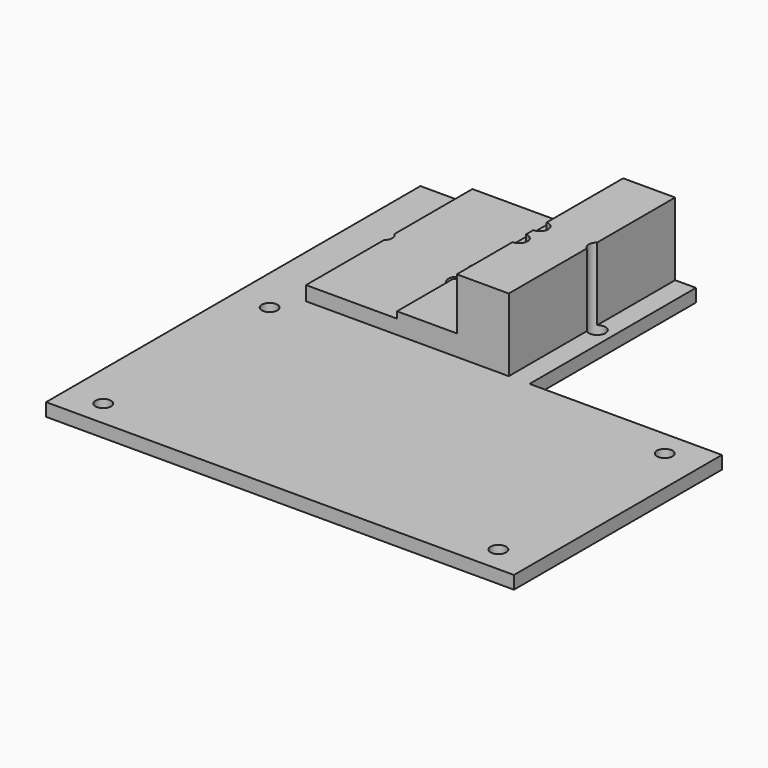
from build123d import *

# Parameters (mm, degrees)
BOX004_W          = 40
BOX004_H          = 40
BOX004_DEPTH      = 10
CYLINDER009_R     = 1.6
CYLINDER009_DEPTH = 20
CYLINDER008_R     = 1.6
CYLINDER008_DEPTH = 20
CYLINDER007_R     = 1.6
CYLINDER007_DEPTH = 20
CYLINDER006_R     = 1.6
CYLINDER006_DEPTH = 10
CYLINDER005_R     = 1.6
CYLINDER005_DEPTH = 10
CYLINDER004_R     = 1.6
CYLINDER004_DEPTH = 10
BOX003_W          = 10
BOX003_H          = 40
BOX003_DEPTH      = 14
BOX002_W          = 11.5
BOX002_H          = 40
BOX002_DEPTH      = 4
BOX001_W          = 17.5
BOX001_H          = 40
BOX001_DEPTH      = 2.75
CYLINDER003_R     = 1.5
CYLINDER003_DEPTH = 10
CYLINDER002_R     = 1.5
CYLINDER002_DEPTH = 10
CYLINDER001_R     = 1.5
CYLINDER001_DEPTH = 10
CYLINDER_R        = 1.5
CYLINDER_DEPTH    = 10
BOX_W             = 90
BOX_H             = 90
BOX_DEPTH         = 2.5


with BuildPart() as cube004:
    # Box004 → Box004 (new body)
    with BuildSketch(Plane(origin=(53, 50, -5), x_dir=(1, 0, 0), z_dir=(0, 0, 1))):
        with Locations((20, 20)):
            Rectangle(BOX004_W, BOX004_H)
    extrude(amount=BOX004_DEPTH)


with BuildPart() as cylinder009:
    # Cylinder009 → Cylinder009 (new body)
    with BuildSketch(Plane(origin=(50, 70, -5), x_dir=(1, 0, 0), z_dir=(0, 0, 1))):
        Circle(CYLINDER009_R)
    extrude(amount=CYLINDER009_DEPTH)


with BuildPart() as cylinder008:
    # Cylinder008 → Cylinder008 (new body)
    with BuildSketch(Plane(origin=(39, 70, -5), x_dir=(1, 0, 0), z_dir=(0, 0, 1))):
        Circle(CYLINDER008_R)
    extrude(amount=CYLINDER008_DEPTH)


with BuildPart() as cylinder007:
    # Cylinder007 → Cylinder007 (new body)
    with BuildSketch(Plane(origin=(39, 65, -5), x_dir=(1, 0, 0), z_dir=(0, 0, 1))):
        Circle(CYLINDER007_R)
    extrude(amount=CYLINDER007_DEPTH)


with BuildPart() as cylinder006:
    # Cylinder006 → Cylinder006 (new body)
    with BuildSketch(Plane(origin=(27, 65, -5), x_dir=(1, 0, 0), z_dir=(0, 0, 1))):
        Circle(CYLINDER006_R)
    extrude(amount=CYLINDER006_DEPTH)


with BuildPart() as cylinder005:
    # Cylinder005 → Cylinder005 (new body)
    with BuildSketch(Plane(origin=(27, 70, -5), x_dir=(1, 0, 0), z_dir=(0, 0, 1))):
        Circle(CYLINDER005_R)
    extrude(amount=CYLINDER005_DEPTH)


with BuildPart() as cylinder004:
    # Cylinder004 → Cylinder004 (new body)
    with BuildSketch(Plane(origin=(9, 70, -5), x_dir=(1, 0, 0), z_dir=(0, 0, 1))):
        Circle(CYLINDER004_R)
    extrude(amount=CYLINDER004_DEPTH)


with BuildPart() as cube003:
    # Box003 → Box003 (new body)
    with BuildSketch(Plane(origin=(39, 50, 0), x_dir=(1, 0, 0), z_dir=(0, 0, 1))):
        with Locations((5, 20)):
            Rectangle(BOX003_W, BOX003_H)
    extrude(amount=BOX003_DEPTH)


with BuildPart() as cube002:
    # Box002 → Box002 (new body)
    with BuildSketch(Plane(origin=(27.5, 50, 0), x_dir=(1, 0, 0), z_dir=(0, 0, 1))):
        with Locations((5.75, 20)):
            Rectangle(BOX002_W, BOX002_H)
    extrude(amount=BOX002_DEPTH)


with BuildPart() as cube001:
    # Box001 → Box001 (new body)
    with BuildSketch(Plane(origin=(10, 50, 0), x_dir=(1, 0, 0), z_dir=(0, 0, 1))):
        with Locations((8.75, 20)):
            Rectangle(BOX001_W, BOX001_H)
    extrude(amount=BOX001_DEPTH)


with BuildPart() as cylinder003:
    # Cylinder003 → Cylinder003 (new body)
    with BuildSketch(Plane(origin=(83, 45, -5), x_dir=(1, 0, 0), z_dir=(0, 0, 1))):
        Circle(CYLINDER003_R)
    extrude(amount=CYLINDER003_DEPTH)


with BuildPart() as cylinder002:
    # Cylinder002 → Cylinder002 (new body)
    with BuildSketch(Plane(origin=(83, 5, -5), x_dir=(1, 0, 0), z_dir=(0, 0, 1))):
        Circle(CYLINDER002_R)
    extrude(amount=CYLINDER002_DEPTH)


with BuildPart() as cylinder001:
    # Cylinder001 → Cylinder001 (new body)
    with BuildSketch(Plane(origin=(7, 45, -5), x_dir=(1, 0, 0), z_dir=(0, 0, 1))):
        Circle(CYLINDER001_R)
    extrude(amount=CYLINDER001_DEPTH)


with BuildPart() as cylinder:
    # Cylinder → Cylinder (new body)
    with BuildSketch(Plane(origin=(7, 5, -5), x_dir=(1, 0, 0), z_dir=(0, 0, 1))):
        Circle(CYLINDER_R)
    extrude(amount=CYLINDER_DEPTH)


with BuildPart() as cut010:
    # Box → Box (new body)
    with BuildSketch(Plane.XY.offset(-2.5)):
        with Locations((45, 45)):
            Rectangle(BOX_W, BOX_H)
    extrude(amount=BOX_DEPTH)

    # Cut: cut Cylinder
    add(cylinder.part, mode=Mode.SUBTRACT)

    # Cut001: cut Cylinder001
    add(cylinder001.part, mode=Mode.SUBTRACT)

    # Cut002: cut Cylinder002
    add(cylinder002.part, mode=Mode.SUBTRACT)

    # Cut003: cut Cylinder003
    add(cylinder003.part, mode=Mode.SUBTRACT)

    # Fusion: union Cube001
    add(cube001.part)

    # Fusion001: union Cube002
    add(cube002.part)

    # Fusion002: union Cube003
    add(cube003.part)

    # Cut004: cut Cylinder004
    add(cylinder004.part, mode=Mode.SUBTRACT)

    # Cut005: cut Cylinder005
    add(cylinder005.part, mode=Mode.SUBTRACT)

    # Cut006: cut Cylinder006
    add(cylinder006.part, mode=Mode.SUBTRACT)

    # Cut007: cut Cylinder007
    add(cylinder007.part, mode=Mode.SUBTRACT)

    # Cut008: cut Cylinder008
    add(cylinder008.part, mode=Mode.SUBTRACT)

    # Cut009: cut Cylinder009
    add(cylinder009.part, mode=Mode.SUBTRACT)

    # Cut010: cut Cube004
    add(cube004.part, mode=Mode.SUBTRACT)


solid = cut010.part
